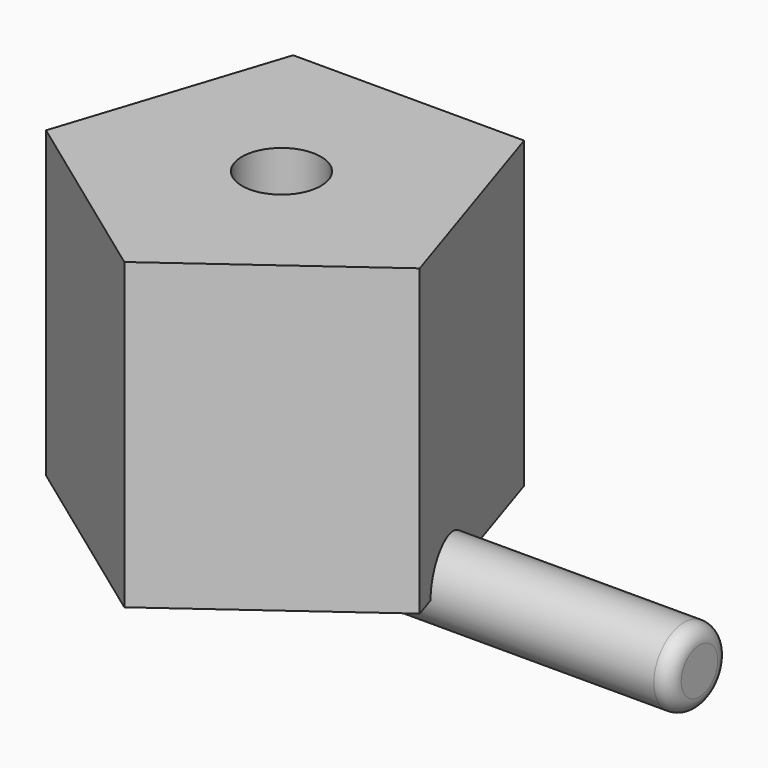
from build123d import *

# Parameters (mm, degrees)
F0_R     = 2.5
F1_DEPTH = 27.5
F2_R     = 1
F3_R     = 2.6
F4_DEPTH = 20


with BuildPart() as f1:
    # F0 (on Right) → F1 (new body)
    with BuildSketch(Plane.YZ):
        Circle(F0_R)
    extrude(amount=F1_DEPTH)

    # F2
    f2_edges = [f1.edges().sort_by_distance(p)[0] for p in [
        (27.5, -2.5, 0),
        (0, -2.5, 0),
    ]]
    fillet(f2_edges, radius=F2_R)


with BuildPart() as f4:
    # F3 (on Top) → F4 (new body)
    with BuildSketch(Plane.XY):
        Polygon((-12.292405, -3.994045), (0, -12.925), (12.292405, -3.994045), (7.597124, 10.456545), (-7.597124, 10.456545), align=None)
        Circle(F3_R, mode=Mode.SUBTRACT)
    extrude(amount=F4_DEPTH)


solid = Compound([f1.part, f4.part])
